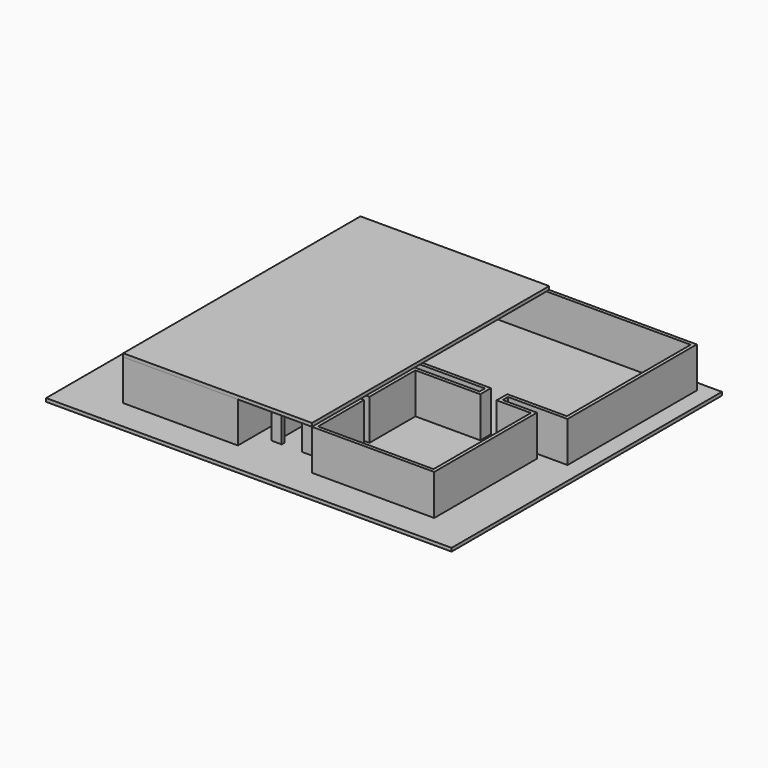
from build123d import *

# Parameters (mm, degrees)
F0_W      = 762
F0_H      = 635
F1_DEPTH  = 6.35
F3_DEPTH  = 76.2
F6_DEPTH  = 25.4
F8_DEPTH  = 25.4
F9_W      = 354.692042
F9_H      = 557.127513
F10_DEPTH = 6.35


with BuildPart() as f1:
    # F0 (on Top) → F1 (new body)
    with BuildSketch(Plane.XY):
        with Locations((58.557814, 137.18461)):
            Rectangle(F0_W, F0_H)
    extrude(amount=F1_DEPTH)

    # F2 (on face) → F3 (join)
    with BuildSketch(Plane.XY.offset(6.35)):
        Polygon((130.749166, -14.237264), (130.749166, -122.187264), (360.435128, -122.187264), (360.435128, 119.112736), (296.099782, 119.112736), (296.099782, 131.429225), (408.072829, 131.429225), (408.072829, 434.940249), (-44.960961, 434.940249), (-44.960961, 131.429225), (20.457814, 131.429225), (20.457814, 11.162736), (-8.485242, 11.162736), (-8.485242, 119.112736), (-223.942876, 119.112736), (-223.942876, -122.187264), (-8.485242, -122.187264), (-8.485242, -14.237264), (20.457814, -14.237264), (20.457814, -79.42088), (96.657814, -79.42088), (96.657814, -14.237264), align=None)
        Polygon((26.807814, -7.887264), (-14.835243, -7.887264), (-14.835243, -115.837263), (-217.592874, -115.837263), (-217.592874, 112.762734), (-14.835243, 112.762734), (-14.835243, 4.812736), (26.807811, 4.812736), (26.807811, 137.779236), (-38.61095, 137.779236), (-38.61095, 428.590238), (401.722819, 428.590238), (401.722819, 137.779236), (289.749771, 137.779236), (289.749771, 112.76274), (354.085132, 112.76274), (354.085132, -115.837269), (137.099162, -115.837269), (137.099162, -7.887264), (90.307814, -6.574249), (90.307814, -73.07088), (26.807814, -73.07088), align=None, mode=Mode.SUBTRACT)
        Polygon((137.099162, 4.812736), (137.099162, 112.76274), (259.020705, 112.76274), (259.020705, 137.779236), (90.307817, 137.779236), (90.307817, 4.812736), align=None)
        Polygon((130.749166, 11.162736), (96.657814, 11.162736), (96.657814, 131.429225), (252.670705, 131.429225), (252.670705, 119.112736), (130.749166, 119.112736), align=None, mode=Mode.SUBTRACT)
    extrude(amount=F3_DEPTH)

    # F5 (on face) → F6 (cut)
    with BuildSketch(Plane.XZ.offset(79.42088)):
        Polygon((39.507814, 6.35), (58.557814, 6.35), (77.607814, 6.35), (77.607814, 69.85), (39.507814, 69.85), align=None)
    extrude(amount=-F6_DEPTH, mode=Mode.SUBTRACT)

    # F7 (on face) → F8 (join)
    with BuildSketch(Plane.YZ.offset(26.807811)):
        Polygon((4.812736, 11.43), (4.812736, 6.35), (111.492736, 6.35), (111.492736, 77.47), (103.872736, 77.47), (103.872736, 72.39), (96.252736, 72.39), (96.252736, 67.31), (88.632736, 67.31), (88.632736, 62.23), (81.012736, 62.23), (81.012736, 57.15), (73.392736, 57.15), (73.392736, 52.07), (65.772736, 52.07), (65.772736, 46.99), (58.152736, 46.99), (58.152736, 41.91), (50.532736, 41.91), (50.532736, 36.83), (42.912736, 36.83), (42.912736, 31.75), (35.292736, 31.75), (35.292736, 26.67), (27.672736, 26.67), (27.672736, 21.59), (20.052736, 21.59), (20.052736, 16.51), (12.432736, 16.51), (12.432736, 11.43), align=None)
    extrude(amount=F8_DEPTH)


with BuildPart() as f10:
    # F9 (on face) → F10 (new body)
    with BuildSketch(Plane.XY.offset(82.55)):
        with Locations((-46.596855, 156.376492)):
            Rectangle(F9_W, F9_H)
    extrude(amount=F10_DEPTH)


solid = Compound([f1.part, f10.part])
